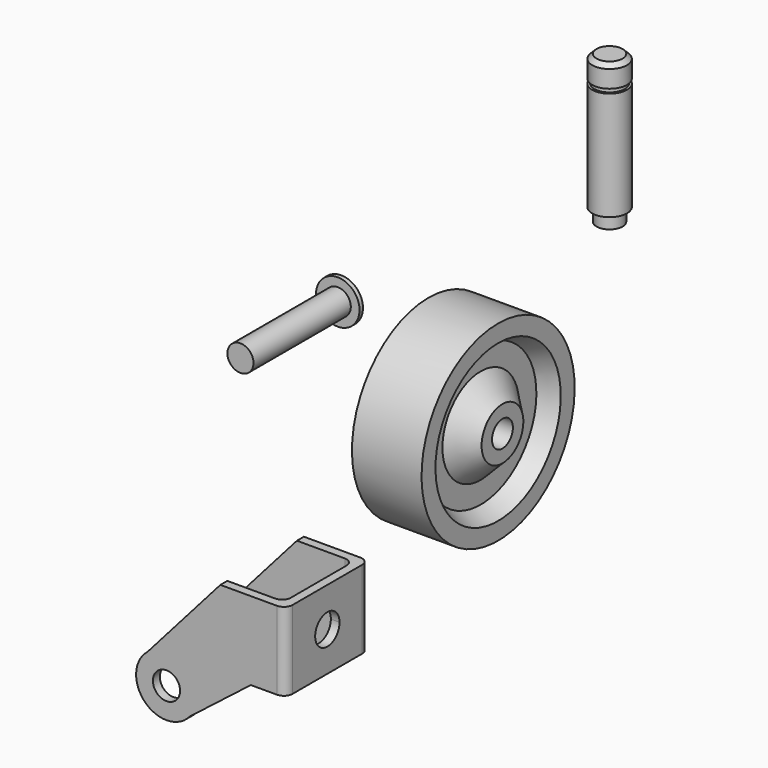
from build123d import *

# Parameters (mm, degrees)
F2_W      = 27.9639214277
F2_H      = 3
F4_W      = 3.5
F4_H      = 1
F6_W      = 20
F6_H      = 18
F6_W_2    = 2
F7_DEPTH  = 2
F8_W      = 2
F8_H      = 18
F9_DEPTH  = 13
F11_DEPTH = 24
F12_DEPTH = 32
F13_DEPTH = 6
F14_R     = 3.125
F15_DEPTH = 24
F17_DEPTH = 2
F18_R     = 2


with BuildPart() as f1:
    # F0 (on Front) → F1 (revolve)
    with BuildSketch(Plane.XZ):
        Polygon((8, 22), (-8, 22), (-8, 18), (-4, 16), (-4, 11), (-9, 6), (-9, 3), (9, 3), (9, 6), (4, 11), (4, 16), (8, 18), align=None)
    revolve(axis=Axis((-2, 0, 0), (-1, 0, 0)))


with BuildPart() as f3:
    # F2 (on Right) → F3 (revolve)
    with BuildSketch(Plane.YZ):
        with BuildLine():
            Line((-34.0463978052, 38.3943307549), (-35.0824763775, 38.3943307549))
            Line((-35.0824763775, 38.3943307549), (-35.0824763775, 33.3943307549))
            ThreePointArc((-35.0824763775, 33.3943307549), (-34.2399210975, 35.8270859414), (-34.0463978052, 38.3943307549))
        make_face()
        Polygon((-36.0824763775, 38.3943307549), (-36.0824763775, 35.3943307549), (-36.0824763775, 33.3943307549), (-35.0824763775, 33.3943307549), (-35.0824763775, 38.3943307549), align=None)
        with Locations((-50.0644370914, 36.8943307549)):
            Rectangle(F2_W, F2_H)
    revolve(axis=Axis((0, -49.0463978052, 38.3943307549), (0, 1, 0)))


with BuildPart() as f5:
    # F4 (on Right) → F5 (revolve)
    with BuildSketch(Plane.YZ):
        Polygon((45.0360825956, 56.8711357266), (42.0360825956, 56.8711357266), (42.0360825956, 55.8711357266), (46.0360825956, 55.8711357266), align=None)
        Polygon((46.0360825956, 55.8711357266), (42.0360825956, 55.8711357266), (42.0360825956, 51.8711357266), (45.5360825956, 51.8711357266), (46.0360825956, 51.8711357266), align=None)
        with Locations((43.7860825956, 51.3711357266)):
            Rectangle(F4_W, F4_H)
        Polygon((45.5360825956, 50.8711357266), (42.0360825956, 50.8711357266), (42.0360825956, 22.8711357266), (45.0360825956, 22.8711357266), (45.0360825956, 25.8711357266), (46.0360825956, 25.8711357266), (46.0360825956, 50.8711357266), align=None)
    revolve(axis=Axis((0, 42.0360825956, 39.8711357266), (0, 0, -1)))


with BuildPart() as f7:
    # F6 (on Right) → F7 (new body)
    with BuildSketch(Plane.YZ):
        with Locations((-39.0702523291, -26.6496847222)):
            Rectangle(F6_W, F6_H)
        with Locations((-28.0702523291, -26.6496847222)):
            Rectangle(F6_W_2, F6_H)
        with Locations((-50.0702523291, -26.6496847222)):
            Rectangle(F6_W_2, F6_H)
    extrude(amount=-F7_DEPTH)

    # F8 (on face) → F9 (join)
    with BuildSketch(Plane(origin=(-2, 0, 0), x_dir=(0, -1, 0), z_dir=(-1, 0, 0))):
        with Locations((28.0702523291, -26.6496847222)):
            Rectangle(F8_W, F8_H)
        with Locations((50.0702523291, -26.6496847222)):
            Rectangle(F8_W, F8_H)
    extrude(amount=F9_DEPTH)

    # F10 (on face) → F11 (cut)
    with BuildSketch(Plane.XZ.offset(51.0702523291)):
        Polygon((-15, -35.6496847222), (-8, -35.6496847222), (-15, -17.6496847222), align=None)
    extrude(amount=-F11_DEPTH, mode=Mode.SUBTRACT)

    # F12 (add): faces of the model
    f12_faces = [f7.faces().sort_by_distance(p)[0] for p in [
        (-11.5, -28.0702523291, -26.6496847222),
        (-11.5, -50.0702523291, -26.6496847222),
    ]]
    extrude(f12_faces, amount=F12_DEPTH)

    # F13 (add): faces of the model
    f13_faces = [f7.faces().sort_by_distance(p)[0] for p in [
        (-22.9120747447, -50.0702523291, -41.4488249007),
        (-22.9120747447, -28.0702523291, -41.4488249007),
    ]]
    extrude(f13_faces, amount=F13_DEPTH)

    # F14 (on face) → F15 (cut)
    with BuildSketch(Plane.XZ.offset(51.0702523291)):
        with BuildLine():
            Line((-31.7311901927, -36.6274947839), (-15, -17.6496847222))
            Line((-15, -17.6496847222), (-44.8241494893, -29.2479650792))
            Line((-44.8241494893, -29.2479650792), (-35.6494719224, -52.8399931084))
            Line((-35.6494719224, -52.8399931084), (-5.8253224331, -41.2417127515))
            Line((-5.8253224331, -41.2417127515), (-8, -35.6496847222))
            Line((-8, -35.6496847222), (-22.0456967101, -46.583961284))
            ThreePointArc((-22.0456967101, -46.583961284), (-32.3872067376, -46.9548381797), (-31.7311901927, -36.6274947839))
        make_face()
        with Locations((-27.3843359914, -42.0881244709)):
            Circle(F14_R)
    extrude(amount=-F15_DEPTH, mode=Mode.SUBTRACT)

    # F16 (on face) → F17 (cut)
    with BuildSketch(Plane.YZ):
        with BuildLine():
            ThreePointArc((-35.5702523291, -26.6496847222), (-36.595378595, -24.1748109881), (-39.0702523291, -23.1496847222))
            ThreePointArc((-39.0702523291, -23.1496847222), (-41.5451260633, -29.1245584564), (-35.5702523291, -26.6496847222))
        make_face()
    extrude(amount=-F17_DEPTH, mode=Mode.SUBTRACT)

    # F18
    f18_edges = [f7.edges().sort_by_distance(p)[0] for p in [
        (0, -51.070252, -26.649685),
        (0, -27.070252, -26.649685),
        (-2, -49.070252, -26.649685),
        (-2, -29.070252, -26.649685),
    ]]
    fillet(f18_edges, radius=F18_R)


solid = Compound([f1.part, f3.part, f5.part, f7.part])
